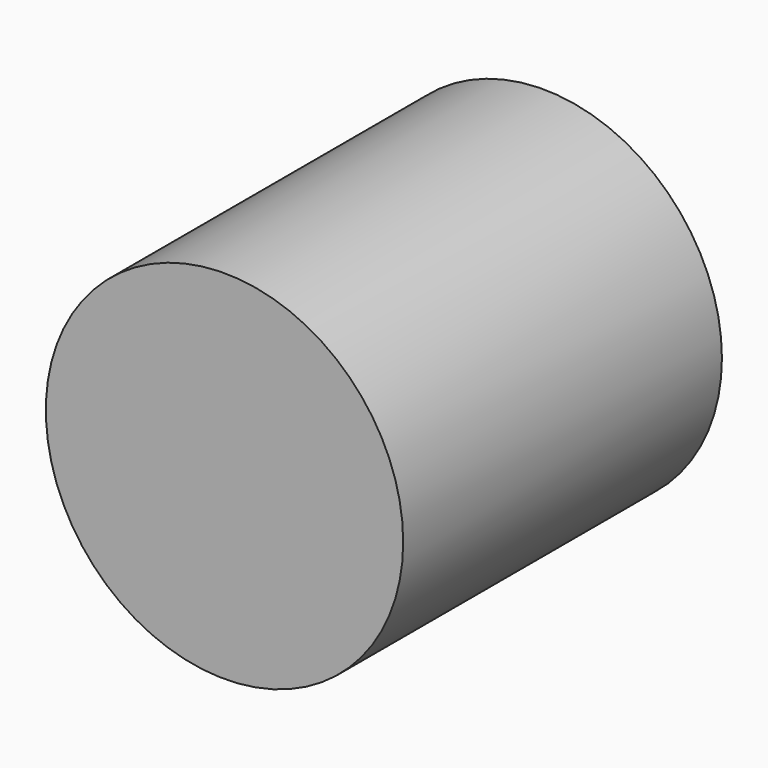
from build123d import *

# Parameters (mm, degrees)
F0_R     = 6.35
F0_R_2   = 2.1082
F1_DEPTH = 4.826
F2_R     = 6.35
F3_DEPTH = 9.3345
F4_R     = 1.2446
F5_DEPTH = 8.0772


with BuildPart() as f1:
    # F0 (on Front) → F1 (new body)
    with BuildSketch(Plane.XZ):
        Circle(F0_R)
        Circle(F0_R_2, mode=Mode.SUBTRACT)
    extrude(amount=F1_DEPTH)

    # F2 (on face) → F3 (join)
    with BuildSketch(Plane.XZ.offset(4.826)):
        Circle(F2_R)
    extrude(amount=F3_DEPTH)


with BuildPart() as f5:
    # F4 (on face) → F5 (new body)
    with BuildSketch(Plane(origin=(0, -4.826, 0), x_dir=(-1, 0, 0), z_dir=(0, 1, 0))):
        Circle(F4_R)
    extrude(amount=-F5_DEPTH)


solid = Compound([f1.part, f5.part])
